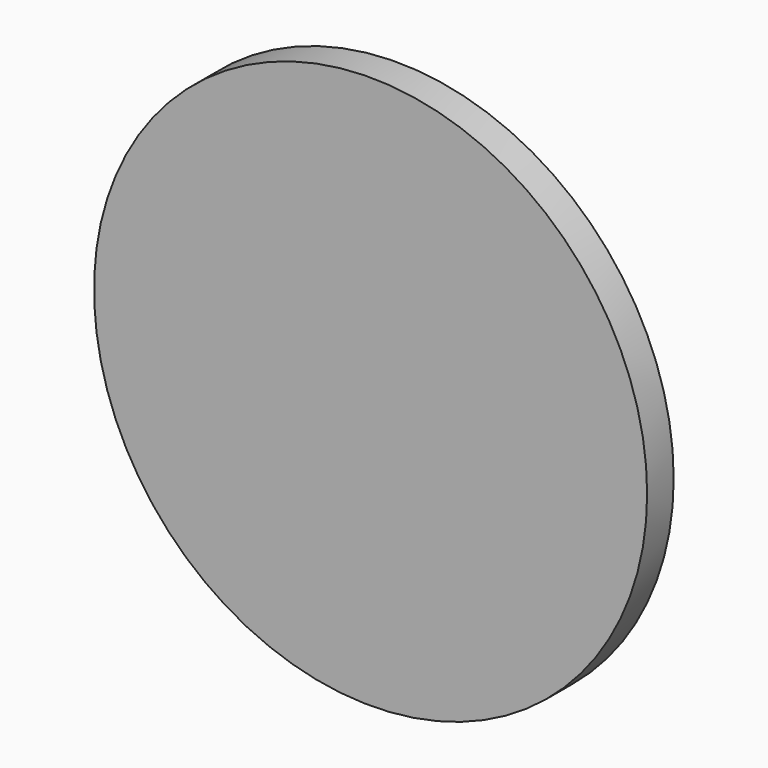
from build123d import *

# Parameters (mm, degrees)
F0_R     = 25
F0_R_2   = 5
F1_DEPTH = 3
F2_DEPTH = 3


with BuildPart() as f1:
    # F0 (on Front) → F1 (new body)
    with BuildSketch(Plane.XZ):
        Circle(F0_R)
        Circle(F0_R_2, mode=Mode.SUBTRACT)
        Circle(F0_R_2)
    extrude(amount=F1_DEPTH)

    # F0 (on Front) → F2 (join)
    with BuildSketch(Plane.XZ):
        Circle(F0_R_2)
    extrude(amount=-F2_DEPTH)


solid = f1.part
